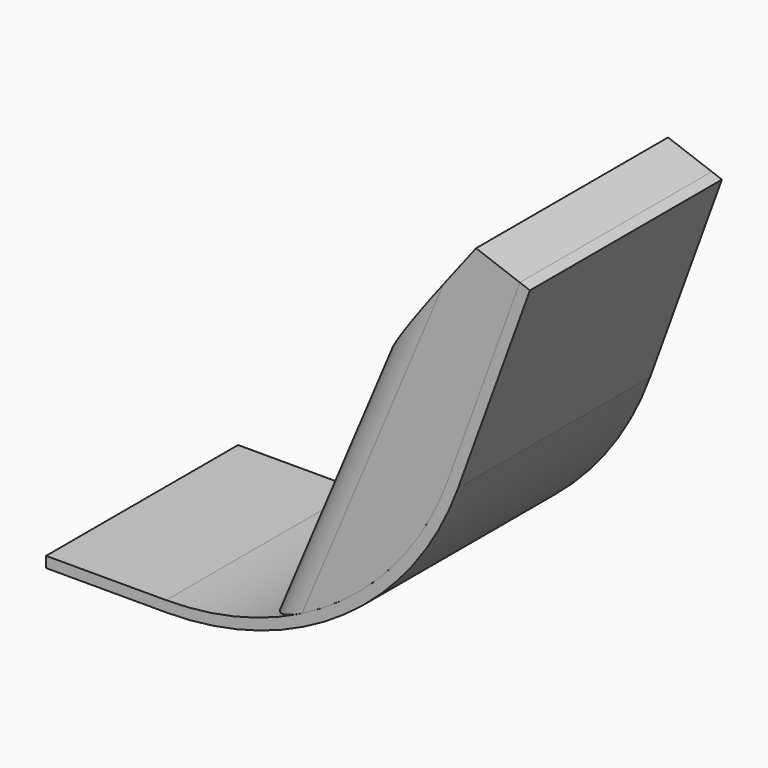
from build123d import *

# Parameters (mm, degrees)
F1_DEPTH      = 25.4
F3_DEPTH      = 25.4
F3_DEPTH_BACK = 25.4
F4_R          = 6.35


with BuildPart() as f1:
    # F0 (on Front) → F1 (new body, symmetric)
    with BuildSketch(Plane.XZ):
        with BuildLine():
            Line((25.4, 0), (0, 0))
            Line((0, 0), (0, -2.286))
            Line((0, -2.286), (25.4, -2.286))
            ThreePointArc((25.4, -2.286), (63.133299, 9.611264), (87.218619, 40.999863))
            Line((87.218619, 40.999863), (102.421414, 82.7692))
            Line((102.421414, 82.7692), (100.273277, 83.551058))
            Line((100.273277, 83.551058), (85.070481, 41.781721))
            ThreePointArc((85.070481, 41.781721), (61.822104, 11.483845), (25.4, 0))
        make_face()
    extrude(amount=F1_DEPTH, both=True)


with BuildPart() as f3:
    # F2 (on Front) → F3 (new body, two sides)
    with BuildSketch(Plane.XZ) as f3_sk:
        with BuildLine():
            ThreePointArc((45.83549, 3.378117), (69.817911, 18.120498), (85.070481, 41.781721))
            Line((85.070481, 41.781721), (100.273277, 83.551058))
            Line((100.273277, 83.551058), (91.017869, 86.919751))
            Line((91.017869, 86.919751), (68.928234, 58.252834))
            Line((68.928234, 58.252834), (45.83549, 3.378117))
        make_face()
    extrude(amount=F3_DEPTH)
    extrude(f3_sk.sketch, amount=-F3_DEPTH_BACK)

    # F4
    f4_edges = [f3.edges().sort_by_distance(p)[0] for p in [
        (57.381862, -25.4, 30.815476),
        (57.381862, 25.4, 30.815476),
    ]]
    fillet(f4_edges, radius=F4_R)


solid = Compound([f1.part, f3.part])
